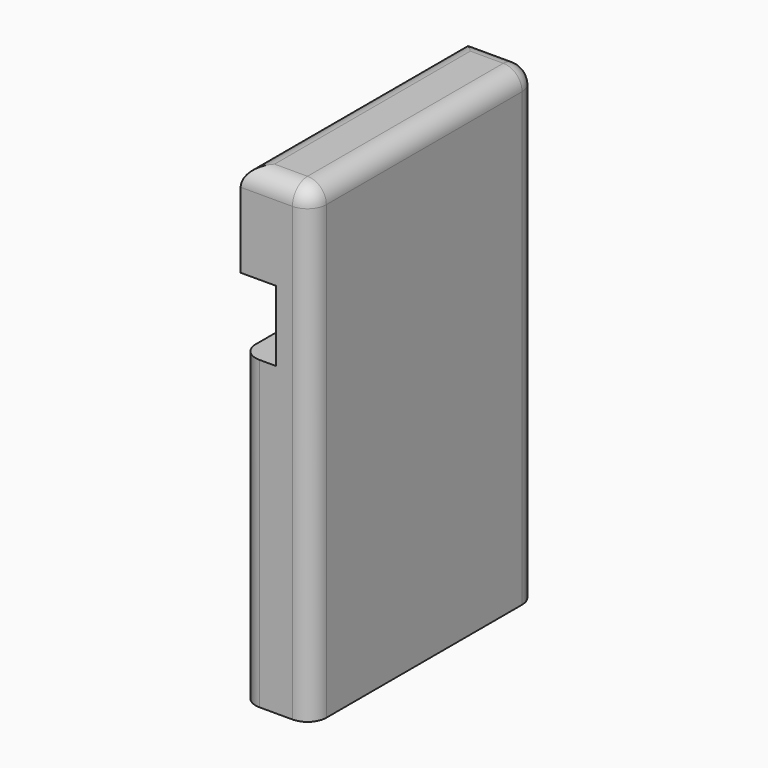
from build123d import *

# Parameters (mm, degrees)
F1_DEPTH = 76.2
F2_R     = 5.08


with BuildPart() as f1:
    # F0 (on Front) → F1 (new body)
    with BuildSketch(Plane.XZ):
        Polygon((-19.05, 0), (0, 0), (0, 127), (-19.05, 127), (-19.05, 101.6), (-9.525, 101.6), (-9.525, 82.55), (-19.05, 82.55), align=None)
    extrude(amount=F1_DEPTH)

    # F2
    f2_edges = [f1.edges().sort_by_distance(p)[0] for p in [
        (0, -38.1, 127),
        (0, -76.2, 63.5),
        (-9.525, -76.2, 127),
        (-19.05, -76.2, 41.275),
        (-19.05, 0, 41.275),
        (-19.05, -38.1, 127),
        (-9.525, 0, 127),
        (0, 0, 63.5),
    ]]
    fillet(f2_edges, radius=F2_R)


solid = f1.part
